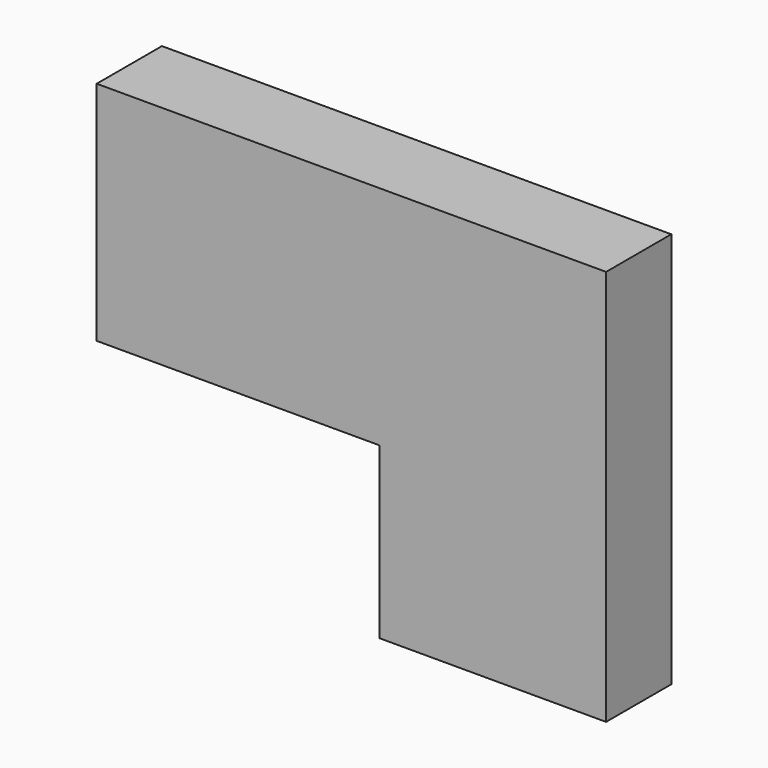
from build123d import *

# Parameters (mm, degrees)
F0_W     = 600
F0_H     = 800
F0_W_2   = 800
F0_H_2   = 600
F1_DEPTH = 288


with BuildPart() as f1:
    # F0 (on Front) → F1 (new body)
    with BuildSketch(Plane.XZ):
        with Locations((95.488157, 130.783261)):
            Rectangle(F0_W, F0_H)
        with Locations((1195.488157, -569.216739)):
            Rectangle(F0_W_2, F0_H_2)
        Polygon((1595.488157, 530.783261), (395.488157, 530.783261), (395.488157, -269.216739), (795.488157, -269.216739), (1595.488157, -269.216739), align=None)
    extrude(amount=F1_DEPTH)


solid = f1.part
